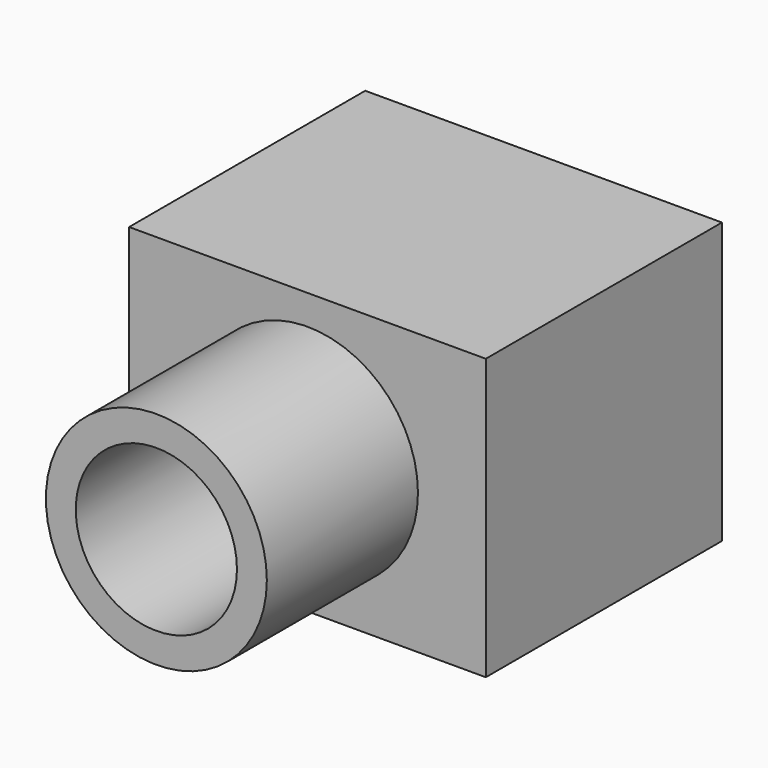
from build123d import *

# Parameters (mm, degrees)
F0_W     = 61.398118
F0_H     = 48.261776
F0_R     = 19.017957
F1_DEPTH = 50.8
F0_R_2   = 13.873023
F2_DEPTH = 83.312


with BuildPart() as f1:
    # F0 (on Front) → F1 (new body)
    with BuildSketch(Plane.XZ):
        Rectangle(F0_W, F0_H)
        Circle(F0_R, mode=Mode.SUBTRACT)
    extrude(amount=F1_DEPTH)

    # F0 (on Front) → F2 (join)
    with BuildSketch(Plane.XZ):
        Circle(F0_R)
        Circle(F0_R_2, mode=Mode.SUBTRACT)
    extrude(amount=F2_DEPTH)


solid = f1.part
